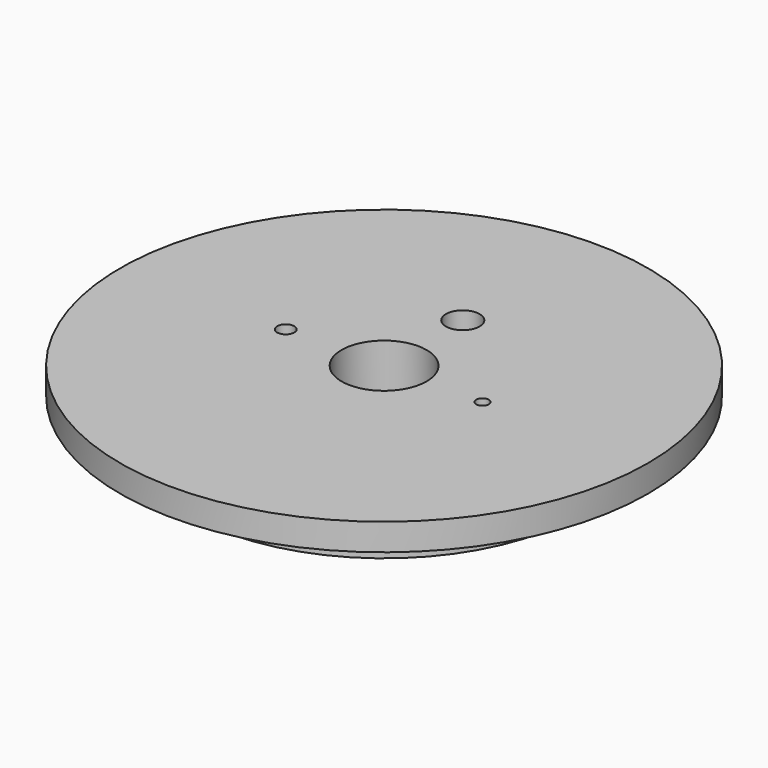
from build123d import *

# Parameters (mm, degrees)
F0_W          = 83.6295
F0_H          = 25.4
F2_R          = 2.38125
F2_R_2        = 3.2385
F2_R_3        = 6.35
F3_DEPTH      = 12.701
F3_DEPTH_BACK = 12.701
F4_W          = 25.4
F4_H          = 15.24


with BuildPart() as f1:
    # F0 (on Front) → F1 (revolve)
    with BuildSketch(Plane.XZ):
        with Locations((57.88025, 0)):
            Rectangle(F0_W, F0_H)
    revolve(axis=Axis((0, 0, 0), (0, 0, 1)))

    # F2 (on Top) → F3 (cut, two sides)
    with BuildSketch(Plane.XY) as f3_sk:
        with Locations((37.1475, 0)):
            Circle(F2_R)
        with Locations((-37.1475, 0)):
            Circle(F2_R_2)
        with Locations((0, 37.1475)):
            Circle(F2_R_3)
    extrude(amount=-F3_DEPTH, mode=Mode.SUBTRACT)
    extrude(f3_sk.sketch, amount=F3_DEPTH_BACK, mode=Mode.SUBTRACT)

    # F4 (on Front) → F5 (revolve, cut)
    with BuildSketch(Plane.XZ):
        with Locations((86.995, -5.08)):
            Rectangle(F4_W, F4_H)
    revolve(axis=Axis((0, 0, 0.5814679898), (0, 0, -1)), mode=Mode.SUBTRACT)


solid = f1.part
